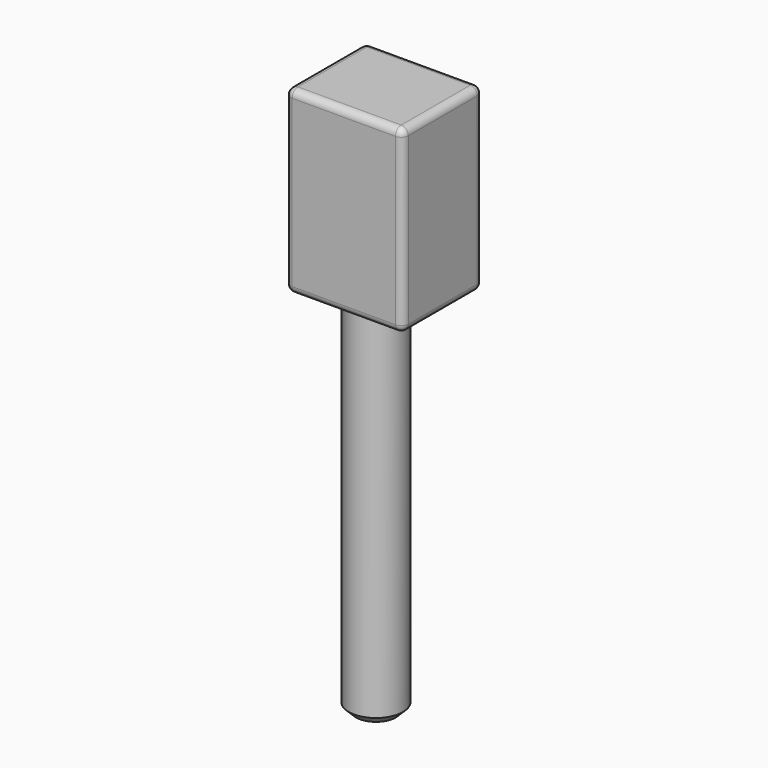
from build123d import *

# Parameters (mm, degrees)
F0_W     = 83.694592
F0_H     = 71.509171
F1_DEPTH = 128.27
F2_R     = 5.08
F3_R     = 19.259612
F4_DEPTH = 263.398
F5_SIZE  = 5.08


with BuildPart() as f1:
    # F0 (on Top) → F1 (new body)
    with BuildSketch(Plane.XY):
        with Locations((3.848031, 2.405015)):
            Rectangle(F0_W, F0_H)
    extrude(amount=F1_DEPTH)

    # F2
    f2_edges = [f1.edges().sort_by_distance(p)[0] for p in [
        (45.695327, 38.159601, 64.135),
        (-37.999265, 38.159601, 64.135),
        (3.848031, 38.159601, 0),
        (3.848031, 38.159601, 128.27),
        (3.848031, -33.34957, 128.27),
        (45.695327, 2.405016, 128.27),
        (-37.999265, 2.405016, 128.27),
        (45.695327, -33.34957, 64.135),
        (45.695327, 2.405016, 0),
        (3.848031, -33.34957, 0),
        (-37.999265, 2.405016, 0),
        (-37.999265, -33.34957, 64.135),
    ]]
    fillet(f2_edges, radius=F2_R)

    # F3 (on Top) → F4 (join)
    with BuildSketch(Plane.XY):
        Circle(F3_R)
    extrude(amount=-F4_DEPTH)

    # F5
    f5_edges = [f1.edges().sort_by_distance(p)[0] for p in [
        (-19.259612, 0, -263.398),
    ]]
    chamfer(f5_edges, length=F5_SIZE)


solid = f1.part
